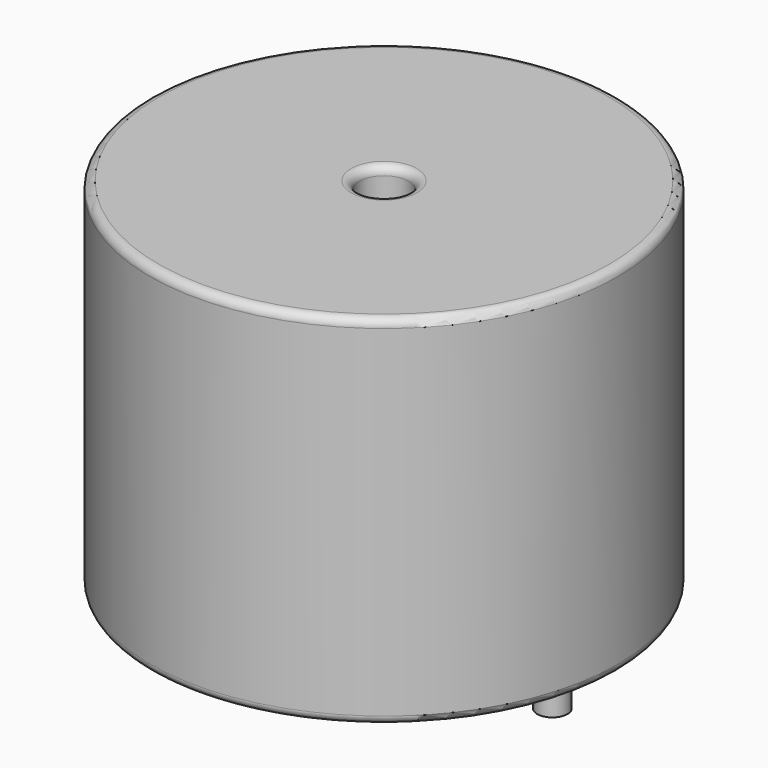
from build123d import *

# Parameters (mm, degrees)
SKETCH001_R       = 0.9
PAD001_DEPTH      = 10.67
PAD001_DEPTH_BACK = 3.5
SKETCH_R          = 13.95
SKETCH_R_2        = 1.46
PAD_DEPTH         = 21.34
FILLET_R          = 0.5


with BuildPart() as pad001:
    # Sketch001 → Pad001 (new body, two sides)
    with BuildSketch(Plane.XY.offset(0.5)) as pad001_sk:
        Circle(SKETCH001_R)
        with Locations((20.07, 0)):
            Circle(SKETCH001_R)
    extrude(amount=PAD001_DEPTH)
    extrude(pad001_sk.sketch, amount=-PAD001_DEPTH_BACK)


with BuildPart() as fillet_body:
    # Sketch → Pad (new body)
    with BuildSketch(Plane.XY.offset(0.1)):
        with Locations((10.035, 0)):
            Circle(SKETCH_R)
        with Locations((10.035, 0)):
            Circle(SKETCH_R_2, mode=Mode.SUBTRACT)
    extrude(amount=PAD_DEPTH)

    # Fillet
    fillet_edges = [fillet_body.edges().sort_by_distance(p)[0] for p in [
        (8.575, 0, 21.44),
        (-3.915, 0, 21.44),
        (-3.915, 0, 0.1),
    ]]
    fillet(fillet_edges, radius=FILLET_R)


solid = Compound([pad001.part, fillet_body.part])
